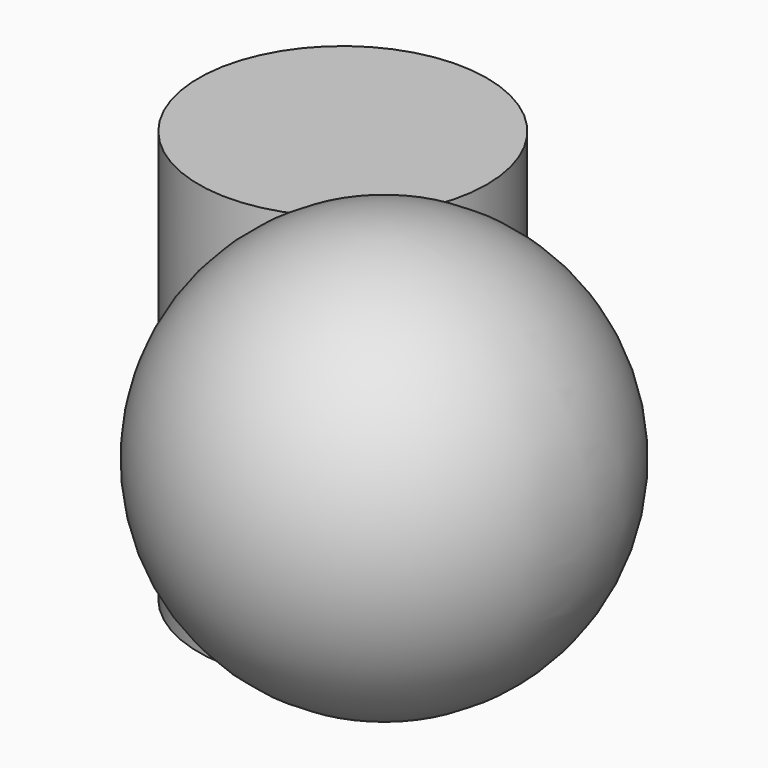
from build123d import *

# Parameters (mm, degrees)
CYLINDER_R     = 3.5
CYLINDER_DEPTH = 10


with BuildPart() as cylinder:
    # Cylinder → Cylinder (new body)
    with BuildSketch(Plane(origin=(0, 10, 0), x_dir=(1, 0, 0), z_dir=(0, 0, 1))):
        Circle(CYLINDER_R)
    extrude(amount=CYLINDER_DEPTH)


with BuildPart() as sphere:
    # Sphere → Sphere (revolve)
    with BuildSketch(Plane(origin=(9, 0, 10), x_dir=(1, 0, 0), z_dir=(0, -1, 0))):
        with BuildLine():
            ThreePointArc((0, -5), (5, 0), (0, 5))
            Line((0, 5), (0, -5))
        make_face()
    revolve(axis=Axis((9, 0, 10), (0, 0, 1)))


solid = Compound([cylinder.part, sphere.part])
